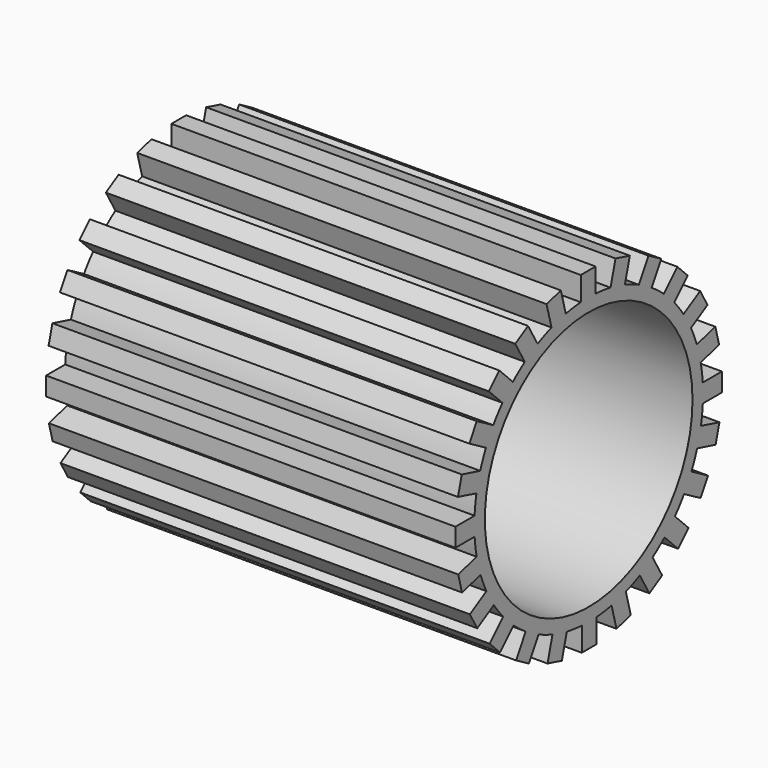
from build123d import *

# Parameters (mm, degrees)
F0_R     = 24.15767
F1_DEPTH = 38.1
F2_COUNT = 24


with BuildPart() as f1:
    # F0 (on Right) → F1 (new body, symmetric)
    with BuildSketch(Plane.YZ):
        with BuildLine():
            ThreePointArc((-1.84246, 26.538285), (-18.147477, -19.451076), (26.602166, 0))
            ThreePointArc((26.602166, 0), (19.369196, 18.234843), (1.603488, 26.553796))
            ThreePointArc((1.603488, 26.553796), (-0.119738, 26.601897), (-1.84246, 26.538285))
        make_face()
        Circle(F0_R, mode=Mode.SUBTRACT)
        with BuildLine():
            ThreePointArc((-1.84246, 26.538285), (-0.119738, 26.601897), (1.603488, 26.553796))
            Line((1.603488, 26.553796), (1.603488, 31.000791))
            Line((1.603488, 31.000791), (-1.84246, 31.000791))
            Line((-1.84246, 31.000791), (-1.84246, 26.538285))
        make_face()
    extrude(amount=F1_DEPTH, both=True)

    # F2: F1 ×24 about axis
    f2_axis = Axis((0, 0, 0), (1, 0, 0))


with BuildPart() as f1_1:
    add(f1.part)
    for i in range(1, F2_COUNT):
        add(f1.part.rotate(f2_axis, i * 360 / F2_COUNT))


solid = f1_1.part
